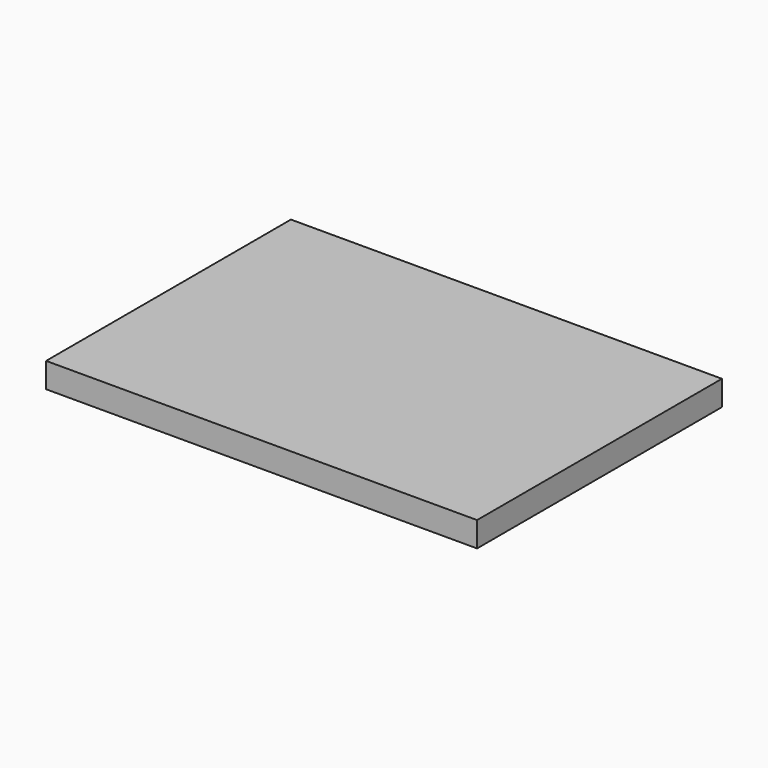
from build123d import *

# Parameters (mm, degrees)
F0_W     = 37.592
F0_H     = 37.592
F1_DEPTH = 2.032
F2_DEPTH = 1.27
F3_DEPTH = 1.27
F4_DEPTH = 10.16


with BuildPart() as f1:
    # F0 (on Top) → F1 (new body)
    with BuildSketch(Plane.XY):
        Rectangle(F0_W, F0_H)
    extrude(amount=F1_DEPTH)

    # F2 (cut, symmetric): faces of the model
    f2_faces = [f1.faces().sort_by_distance(p)[0] for p in [
        (0, -18.796, 1.016),
        (0, 18.796, 1.016),
    ]]
    extrude(f2_faces, amount=F2_DEPTH, both=True, dir=(0, -1, 0), mode=Mode.SUBTRACT)

    # F3 (cut, symmetric): faces of the model
    f3_faces = [f1.faces().sort_by_distance(p)[0] for p in [
        (18.796, 0, 1.016),
        (-18.796, 0, 1.016),
    ]]
    extrude(f3_faces, amount=F3_DEPTH, both=True, dir=(1, 0, 0), mode=Mode.SUBTRACT)

    # F4 (cut): a face of the model
    f4_faces = [f1.faces().sort_by_distance(p)[0] for p in [
        (0, -17.526, 1.016),
    ]]
    extrude(f4_faces, amount=-F4_DEPTH, mode=Mode.SUBTRACT)


solid = f1.part
